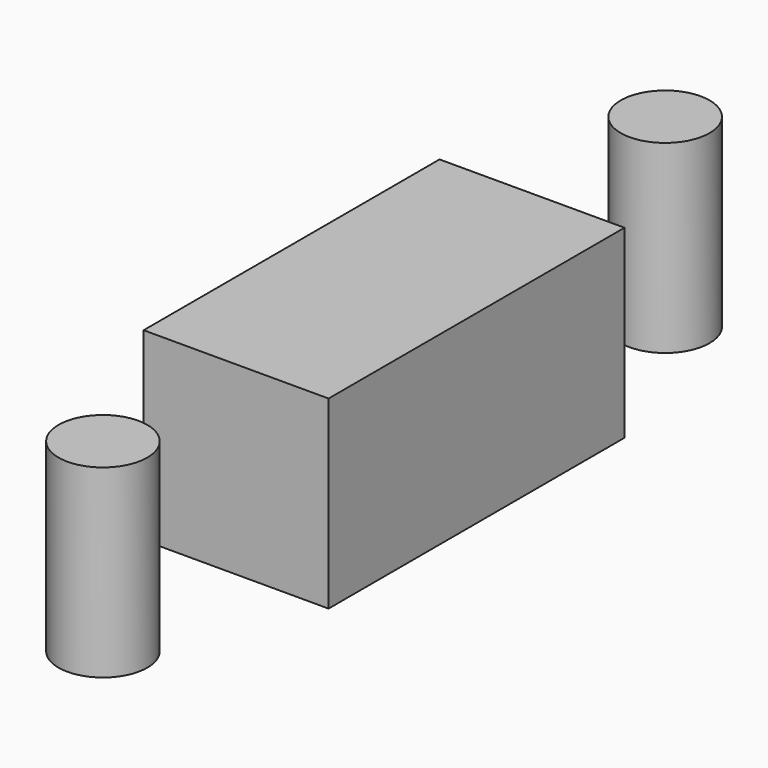
from build123d import *

# Parameters (mm, degrees)
SKETCH002_W   = 7.5
SKETCH002_H   = 23.2
SKETCH002_R   = 1.2
SKETCH002_W_2 = 5
SKETCH002_H_2 = 10
PAD_DEPTH     = 5
BOX023_W      = 6
BOX023_H      = 23
BOX023_DEPTH  = 5


with BuildPart() as body:
    # Sketch002 → Pad (new body)
    with BuildSketch(Plane.XY):
        Rectangle(SKETCH002_W, SKETCH002_H)
        with Locations((0, 9.5)):
            Circle(SKETCH002_R, mode=Mode.SUBTRACT)
        with Locations((0, -9.5)):
            Circle(SKETCH002_R, mode=Mode.SUBTRACT)
        Rectangle(SKETCH002_W_2, SKETCH002_H_2, mode=Mode.SUBTRACT)
    extrude(amount=PAD_DEPTH)


with BuildPart() as switch_holes_cut:
    # Box023 → Box023 (new body)
    with BuildSketch(Plane(origin=(-3, -11.5, 0), x_dir=(1, 0, 0), z_dir=(0, 0, 1))):
        with Locations((3, 11.5)):
            Rectangle(BOX023_W, BOX023_H)
    extrude(amount=BOX023_DEPTH)

    # Cut: cut Body
    add(body.part, mode=Mode.SUBTRACT)


solid = switch_holes_cut.part
